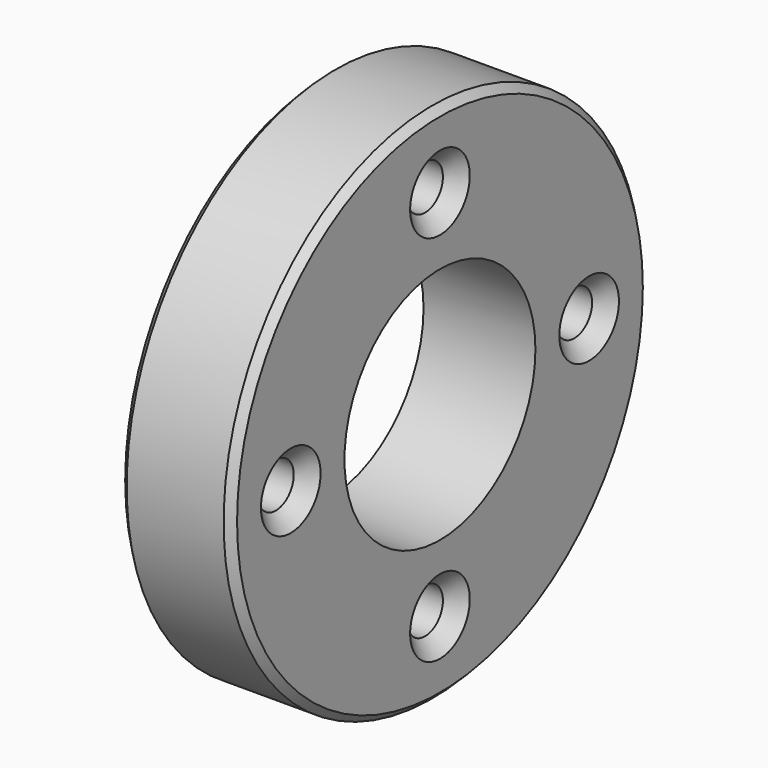
from build123d import *

# Parameters (mm, degrees)
F0_R           = 35
F0_R_2         = 16
F1_DEPTH       = 15
F2_SIZE        = 1
F4_D           = 6
F4_CSINK_D     = 10
F4_CSINK_ANGLE = 90


with BuildPart() as f1:
    # F0 (on Right) → F1 (new body)
    with BuildSketch(Plane.YZ):
        Circle(F0_R)
        Circle(F0_R_2, mode=Mode.SUBTRACT)
    extrude(amount=F1_DEPTH)

    # F2
    f2_edges = [f1.edges().sort_by_distance(p)[0] for p in [
        (15, -35, 0),
        (0, -35, 0),
    ]]
    chamfer(f2_edges, length=F2_SIZE)

    # F4 (through all)
    with Locations(Plane.YZ.offset(15)):
        with Locations((0, 25), (-25, 0), (25, 0), (0, -25)):
            CounterSinkHole(F4_D / 2, F4_CSINK_D / 2, counter_sink_angle=F4_CSINK_ANGLE)


solid = f1.part
